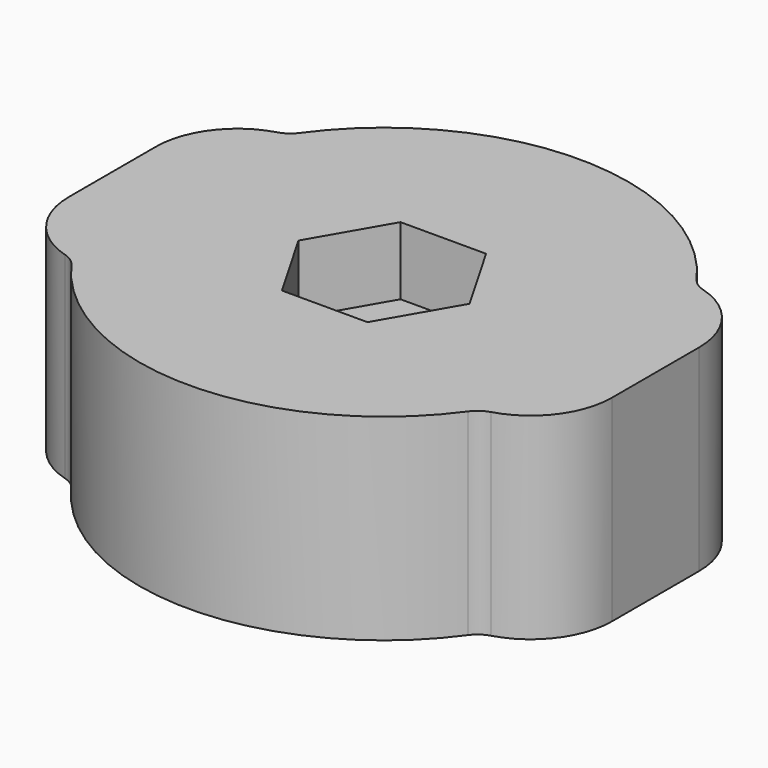
from build123d import *

# Parameters (mm, degrees)
CYLINDER014_R             = 4
CYLINDER014_DEPTH         = 10
CYLINDER013_R             = 1.25
CYLINDER013_DEPTH         = 50
PRISM002_DEPTH            = 2.5
BOX004_W                  = 20
BOX004_H                  = 7.25
BOX004_DEPTH              = 10
FILLET004_R               = 3
FILLET005_R               = 3
CYLINDER016_R             = 4
CYLINDER016_DEPTH         = 7.25
CYLINDER015_R             = 9
CYLINDER015_DEPTH         = 7.25
FILLET006_R               = 1
FILLET006_PLACEMENT_ANGLE = 90


with BuildPart() as cylinder013:
    # Cylinder014 → Cylinder014 (new body)
    with BuildSketch(Plane(origin=(0, -16, 22.5), x_dir=(1, 0, 0), z_dir=(0, -1, 0))):
        Circle(CYLINDER014_R)
    extrude(amount=CYLINDER014_DEPTH)


with BuildPart() as fusion004:
    # Cylinder013 → Cylinder013 (new body)
    with BuildSketch(Plane(origin=(0, -16, 22.5), x_dir=(1, 0, 0), z_dir=(0, -1, 0))):
        Circle(CYLINDER013_R)
    extrude(amount=CYLINDER013_DEPTH)

    # Fusion004: union Cylinder013
    add(cylinder013.part)


with BuildPart() as fusion004_1:
    # Fusion004 placement: moved
    add(fusion004.part.moved(Location((0, 57, 0))))


with BuildPart() as fusion005:
    # Prism002 → Prism002 (new body)
    with BuildSketch(Plane(origin=(0, 29, 22.5), x_dir=(1, 0, 0), z_dir=(0, -1, 0))):
        Polygon((3.15, 0), (1.575, 2.72798), (-1.575, 2.72798), (-3.15, 0), (-1.575, -2.72798), (1.575, -2.72798), align=None)
    extrude(amount=PRISM002_DEPTH)

    # Fusion005: union Fusion004
    add(fusion004_1.part)


with BuildPart() as fusion005_1:
    # Fusion005 placement: moved
    add(fusion005.part.moved(Location((0, -26.5, -5))))


with BuildPart() as fillet005:
    # Box004 → Box004 (new body)
    with BuildSketch(Plane(origin=(-10, 0, 12.5), x_dir=(1, 0, 0), z_dir=(0, 0, 1))):
        with Locations((10, 3.625)):
            Rectangle(BOX004_W, BOX004_H)
    extrude(amount=BOX004_DEPTH)

    # Cut012: cut Fusion005
    add(fusion005_1.part, mode=Mode.SUBTRACT)

    # Fillet004
    fillet004_edges = [fillet005.edges().sort_by_distance(p)[0] for p in [
        (10, 3.625, 22.5),
    ]]
    fillet(fillet004_edges, radius=FILLET004_R)

    # Fillet005
    fillet005_edges = [fillet005.edges().sort_by_distance(p)[0] for p in [
        (10, 3.625, 12.5),
        (-10, 3.625, 12.5),
        (-10, 3.625, 22.5),
    ]]
    fillet(fillet005_edges, radius=FILLET005_R)


with BuildPart() as cylinder015:
    # Cylinder016 → Cylinder016 (new body)
    with BuildSketch(Plane(origin=(0, 0, 17.5), x_dir=(1, 0, 0), z_dir=(0, -1, 0))):
        Circle(CYLINDER016_R)
    extrude(amount=CYLINDER016_DEPTH)


with BuildPart() as tornillos_para_metal:
    # Cylinder015 → Cylinder015 (new body)
    with BuildSketch(Plane(origin=(0, 0, 17.5), x_dir=(1, 0, 0), z_dir=(0, -1, 0))):
        Circle(CYLINDER015_R)
    extrude(amount=CYLINDER015_DEPTH)

    # Cut013: cut Cylinder015
    add(cylinder015.part, mode=Mode.SUBTRACT)


with BuildPart() as tornillos_para_metal_1:
    # Cut013 placement: moved
    add(tornillos_para_metal.part.moved(Location((0, 7.25, 0))))

    # Fusion006: union Fillet005
    add(fillet005.part)

    # Fillet006
    fillet006_edges = [tornillos_para_metal_1.edges().sort_by_distance(p)[0] for p in [
        (7.512605, 3.625, 22.455882),
        (7.512605, 3.625, 12.544118),
        (-7.512605, 3.625, 12.544118),
        (-7.512605, 3.625, 22.455882),
    ]]
    fillet(fillet006_edges, radius=FILLET006_R)


with BuildPart() as tornillos_para_metal_2:
    # Fillet006 placement: moved
    add(tornillos_para_metal_1.part.moved(Location((10, 2.5, -2))).rotate(Axis((10, 2.5, -2), (-1, 0, 0)), FILLET006_PLACEMENT_ANGLE))


solid = tornillos_para_metal_2.part
